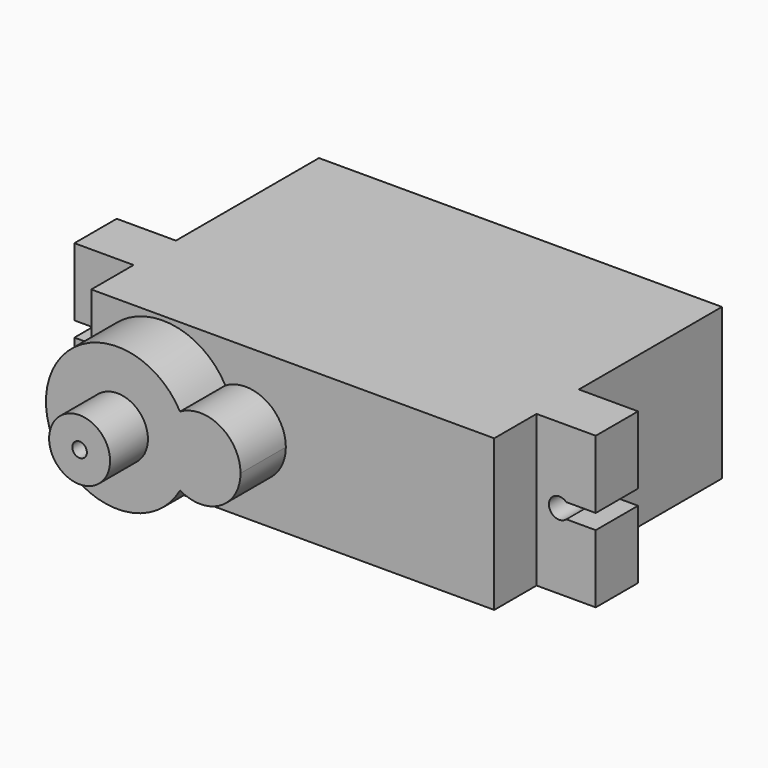
from build123d import *

# Parameters (mm, degrees)
F0_W     = 32
F0_H     = 22.6
F1_DEPTH = 12
F3_START = -4.2
F3_DEPTH = 4.2
F4_R     = 2.42
F4_R_2   = 0.58
F5_DEPTH = 4.5
F6_R     = 2.42
F6_R_2   = 0.58
F7_DEPTH = 3.76


with BuildPart() as f1:
    # F0 (on Top) → F1 (new body)
    with BuildSketch(Plane.XY):
        Rectangle(F0_W, F0_H)
    extrude(amount=F1_DEPTH)

    # F2 (on face) → F3 (join)
    with BuildSketch(Plane.XZ.offset(11.3).offset(F3_START)):
        with BuildLine():
            Line((20.7, 12), (16, 12))
            Line((16, 12), (16, 0))
            Line((16, 0), (20.7, 0))
            Line((20.7, 0), (20.7, 5.4))
            Line((20.7, 5.4), (18.3589275445, 5.4))
            ThreePointArc((18.3589275445, 5.4), (16.98, 6), (18.3589275445, 6.6))
            Line((18.3589275445, 6.6), (20.7, 6.6))
            Line((20.7, 6.6), (20.7, 12))
        make_face()
        with BuildLine():
            Line((-16, 12), (-20.7, 12))
            Line((-20.7, 12), (-20.7, 6.6))
            Line((-20.7, 6.6), (-18.3589275445, 6.6))
            ThreePointArc((-18.3589275445, 6.6), (-17.4728307674, 6.7519044442), (-16.98, 6))
            ThreePointArc((-16.98, 6), (-17.4728307674, 5.2480955558), (-18.3589275445, 5.4))
            Line((-18.3589275445, 5.4), (-20.7, 5.4))
            Line((-20.7, 5.4), (-20.7, 0))
            Line((-20.7, 0), (-16, 0))
            Line((-16, 0), (-16, 12))
        make_face()
        with BuildLine():
            Line((20.7, 12), (16, 12))
            Line((16, 12), (16, 0))
            Line((16, 0), (20.7, 0))
            Line((20.7, 0), (20.7, 5.4))
            Line((20.7, 5.4), (18.3589275445, 5.4))
            ThreePointArc((18.3589275445, 5.4), (16.98, 6), (18.3589275445, 6.6))
            Line((18.3589275445, 6.6), (20.7, 6.6))
            Line((20.7, 6.6), (20.7, 12))
        make_face()
    extrude(amount=-F3_DEPTH)

    # F4 (on face) → F5 (join)
    with BuildSketch(Plane.XZ.offset(11.3)):
        with BuildLine():
            ThreePointArc((-5.3517097264, 3.2470939432), (-4.8208051156, 4.5782913016), (-4.64, 6))
            ThreePointArc((-4.64, 6), (-4.8208051156, 7.4217086984), (-5.3517097264, 8.7529060568))
            ThreePointArc((-5.3517097264, 8.7529060568), (-6.93, 6), (-5.3517097264, 3.2470939432))
        make_face()
        with BuildLine():
            ThreePointArc((-5.3517097264, 8.7529060568), (-4.8208051156, 7.4217086984), (-4.64, 6))
            ThreePointArc((-4.64, 6), (-4.8208051156, 4.5782913016), (-5.3517097264, 3.2470939432))
            ThreePointArc((-5.3517097264, 3.2470939432), (-2.1533768606, 3.2325594833), (-0.55, 6))
            ThreePointArc((-0.55, 6), (-2.1533768606, 8.7674405167), (-5.3517097264, 8.7529060568))
        make_face()
        with BuildLine():
            ThreePointArc((-5.3517097264, 3.2470939432), (-6.93, 6), (-5.3517097264, 8.7529060568))
            ThreePointArc((-5.3517097264, 8.7529060568), (-16, 6), (-5.3517097264, 3.2470939432))
        make_face()
        with Locations((-10.32, 6)):
            Circle(F4_R, mode=Mode.SUBTRACT)
        with Locations((-10.32, 6)):
            Circle(F4_R)
        with Locations((-10.32, 6)):
            Circle(F4_R_2, mode=Mode.SUBTRACT)
    extrude(amount=F5_DEPTH)

    # F6 (on face) → F7 (join)
    with BuildSketch(Plane.XZ.offset(15.8)):
        with Locations((-10.32, 6)):
            Circle(F6_R)
        with Locations((-10.32, 6)):
            Circle(F6_R_2, mode=Mode.SUBTRACT)
    extrude(amount=F7_DEPTH)


solid = f1.part
